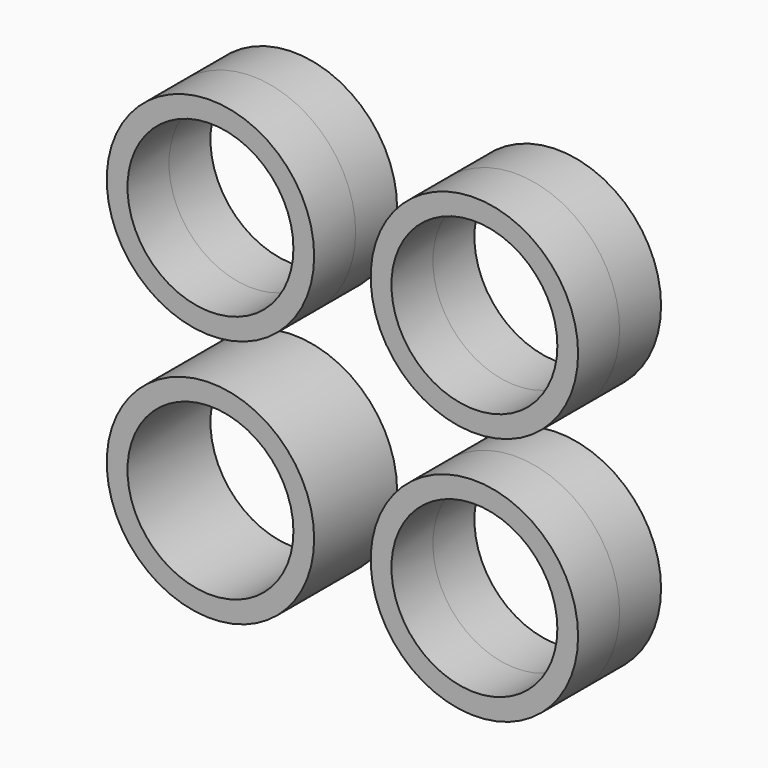
from build123d import *

# Parameters (mm, degrees)
F0_R     = 25
F0_R_2   = 20
F1_DEPTH = 12.5


with BuildPart() as f1:
    # F0 (on Front) → F1 (new body, symmetric)
    with BuildSketch(Plane.XZ):
        with Locations((-32.043104, 29.780199)):
            Circle(F0_R)
        with Locations((-32.043104, 29.780199)):
            Circle(F0_R_2, mode=Mode.SUBTRACT)
        with Locations((31.585259, 29.780199)):
            Circle(F0_R)
        with Locations((31.585259, 29.780199)):
            Circle(F0_R_2, mode=Mode.SUBTRACT)
        with Locations((31.585259, -30.238046)):
            Circle(F0_R)
        with Locations((31.585259, -30.238046)):
            Circle(F0_R_2, mode=Mode.SUBTRACT)
        with Locations((-32.043104, -30.238046)):
            Circle(F0_R)
        with Locations((-32.043104, -30.238046)):
            Circle(F0_R_2, mode=Mode.SUBTRACT)
    extrude(amount=F1_DEPTH, both=True)


solid = f1.part
